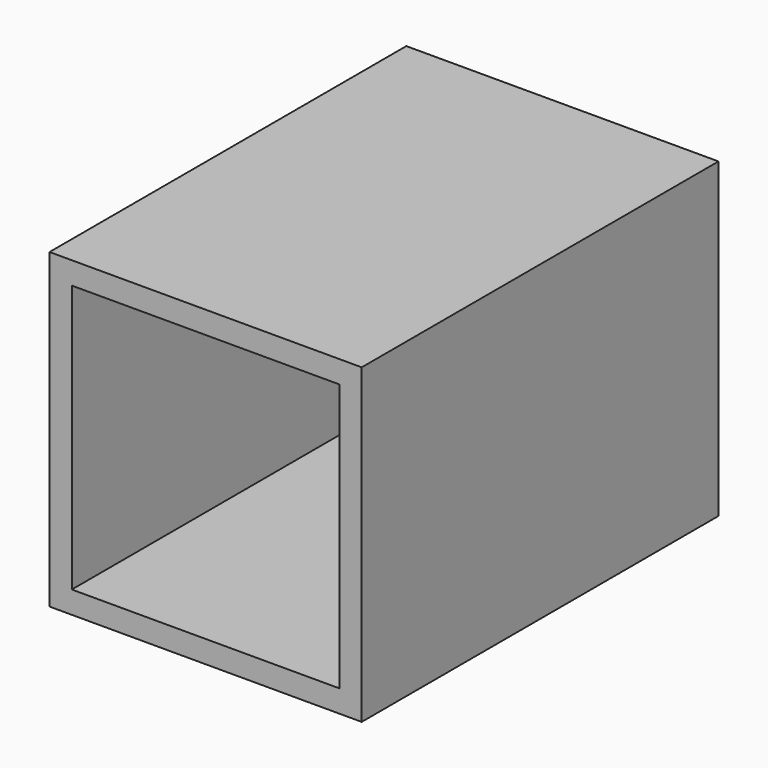
from build123d import *

# Parameters (mm, degrees)
F0_W     = 88.9
F0_H     = 88.9
F0_W_2   = 76.2
F0_H_2   = 76.2
F1_DEPTH = 127
F2_DEPTH = 12.7


with BuildPart() as f1:
    # F0 (on Front) → F1 (new body)
    with BuildSketch(Plane.XZ):
        Rectangle(F0_W, F0_H)
        Rectangle(F0_W_2, F0_H_2, mode=Mode.SUBTRACT)
    extrude(amount=F1_DEPTH)


with BuildPart() as f2:
    # F0 (on Front) → F2 (new body)
    with BuildSketch(Plane.XZ):
        Rectangle(F0_W_2, F0_H_2)
    extrude(amount=F2_DEPTH)


solid = Compound([f1.part, f2.part])
